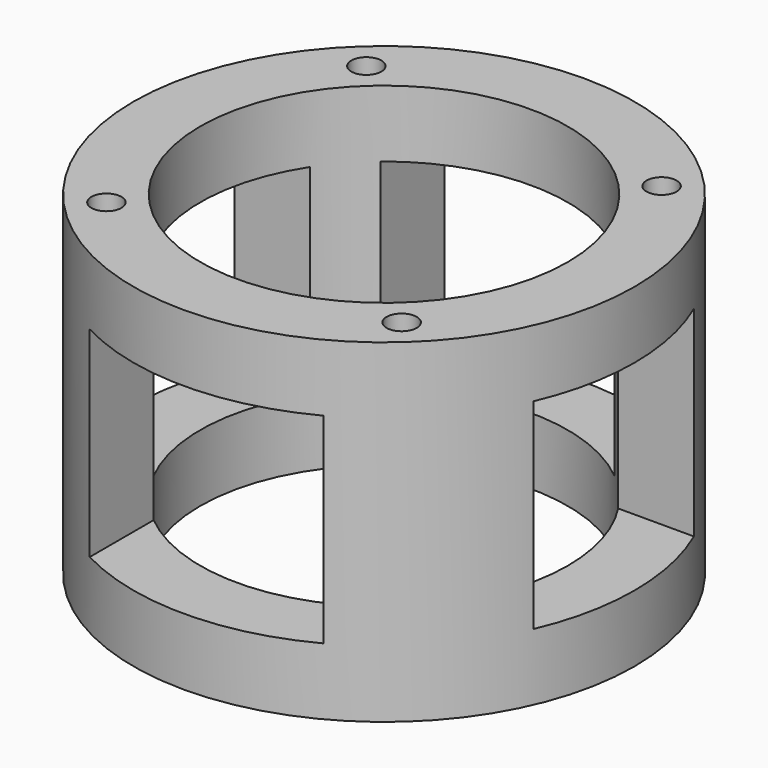
from build123d import *

# Parameters (mm, degrees)
F0_R          = 37.5
F0_R_2        = 27.5
F2_DEPTH      = 50
F3_W          = 35
F3_H          = 30
F4_DEPTH      = 37.501
F4_DEPTH_BACK = 37.501
F5_W          = 30
F5_H          = 30
F6_DEPTH      = 37.501
F6_DEPTH_BACK = 37.501
F8_D          = 4.5
F8_DEPTH      = 6
F8_TIP        = 1.3519363928
F10_D         = 4.5
F10_DEPTH     = 6
F10_TIP       = 1.3519363928


with BuildPart() as f2:
    # F0 (on Top) → F2 (new body)
    with BuildSketch(Plane.XY):
        Circle(F0_R)
        Circle(F0_R_2, mode=Mode.SUBTRACT)
    extrude(amount=F2_DEPTH)

    # F3 (on Front) → F4 (cut, two sides)
    with BuildSketch(Plane.XZ) as f4_sk:
        with Locations((0, 25)):
            Rectangle(F3_W, F3_H)
    extrude(amount=-F4_DEPTH, mode=Mode.SUBTRACT)
    extrude(f4_sk.sketch, amount=F4_DEPTH_BACK, mode=Mode.SUBTRACT)

    # F5 (on Right) → F6 (cut, two sides)
    with BuildSketch(Plane.YZ) as f6_sk:
        with Locations((0, 25)):
            Rectangle(F5_W, F5_H)
    extrude(amount=-F6_DEPTH, mode=Mode.SUBTRACT)
    extrude(f6_sk.sketch, amount=F6_DEPTH_BACK, mode=Mode.SUBTRACT)

    # F8
    with Locations(Plane.XY.offset(50)):
        with Locations((21.8730719462, -24.0378602133), (24.0378602133, 21.8730719462), (-21.8730719462, 24.0378602133), (-24.0378602133, -21.8730719462)):
            Hole(F8_D / 2, depth=F8_DEPTH)
            with Locations((0, 0, -(F8_DEPTH + F8_TIP / 2))):  # 118° drill point
                Cone(0, F8_D / 2, F8_TIP, mode=Mode.SUBTRACT)

    # F10
    with Locations(Plane(origin=(0, 0, 0), x_dir=(1, 0, 0), z_dir=(0, 0, -1))):
        with Locations((21.8730719462, 24.0378602133), (24.0378602133, -21.8730719462), (-24.0378602133, 21.8730719462), (-21.8730719462, -24.0378602133)):
            Hole(F10_D / 2, depth=F10_DEPTH)
            with Locations((0, 0, -(F10_DEPTH + F10_TIP / 2))):  # 118° drill point
                Cone(0, F10_D / 2, F10_TIP, mode=Mode.SUBTRACT)


solid = f2.part
